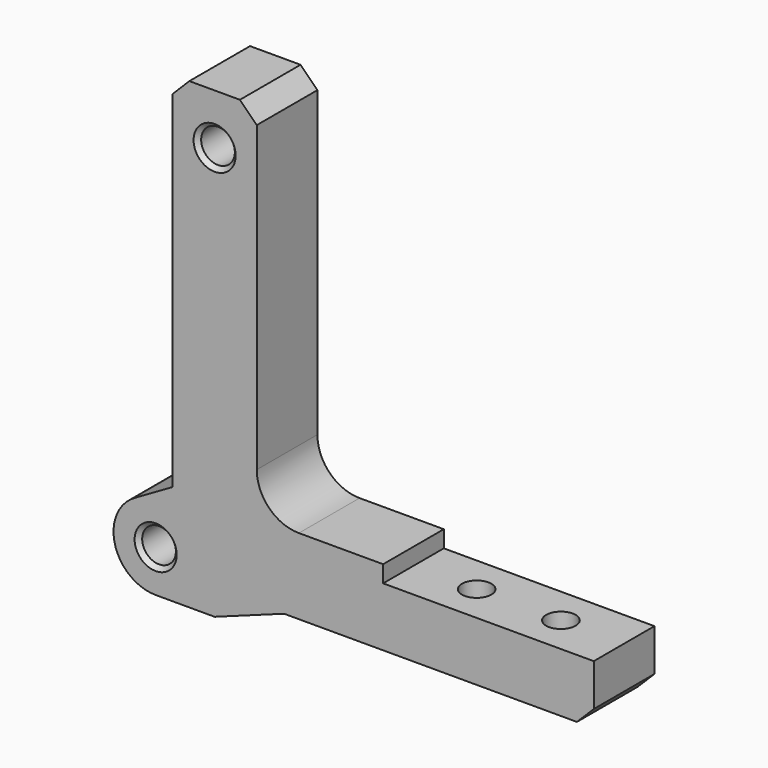
from build123d import *

# Parameters (mm, degrees)
F0_R           = 2
F1_DEPTH       = 4.5
F2_SIZE        = 0.5
F3_SIZE        = 2
F4_R           = 5
F6_D           = 3.5
F6_CBORE_D     = 5.5
F6_CBORE_DEPTH = 3


with BuildPart() as f1:
    # F0 (on Front) → F1 (new body, symmetric)
    with BuildSketch(Plane.XZ):
        with BuildLine():
            Line((2, 6.928203), (-2.5, 4.330127))
            ThreePointArc((-2.5, 4.330127), (-4.829629, -1.294095), (0, -5))
            Line((0, -5), (7, -5))
            Line((7, -5), (15.242432, -2))
            Line((15.242432, -2), (52, -2))
            Line((52, -2), (52, 5))
            Line((52, 5), (27, 5))
            Line((27, 5), (27, 7))
            Line((27, 7), (12, 7))
            Line((12, 7), (12, 50))
            Line((12, 50), (2, 50))
            Line((2, 50), (2, 6.928203))
        make_face()
        Circle(F0_R, mode=Mode.SUBTRACT)
        with Locations((7, 44)):
            Circle(F0_R, mode=Mode.SUBTRACT)
    extrude(amount=F1_DEPTH, both=True)

    # F2
    f2_edges = [f1.edges().sort_by_distance(p)[0] for p in [
        (5, -4.5, 44),
        (-2, -4.5, 0),
        (5, 4.5, 44),
        (-2, 4.5, 0),
    ]]
    chamfer(f2_edges, length=F2_SIZE)

    # F3
    f3_edges = [f1.edges().sort_by_distance(p)[0] for p in [
        (12, 0, 50),
        (2, 0, 50),
        (52, 0, -2),
    ]]
    chamfer(f3_edges, length=F3_SIZE)

    # F4
    f4_edges = [f1.edges().sort_by_distance(p)[0] for p in [
        (12, 0, 7),
    ]]
    fillet(f4_edges, radius=F4_R)

    # F6 (through all)
    with Locations(Plane(origin=(0, 0, -2), x_dir=(1, 0, 0), z_dir=(0, 0, -1))):
        with Locations((44.5, 0), (34.5, 0)):
            CounterBoreHole(F6_D / 2, F6_CBORE_D / 2, F6_CBORE_DEPTH)


solid = f1.part
